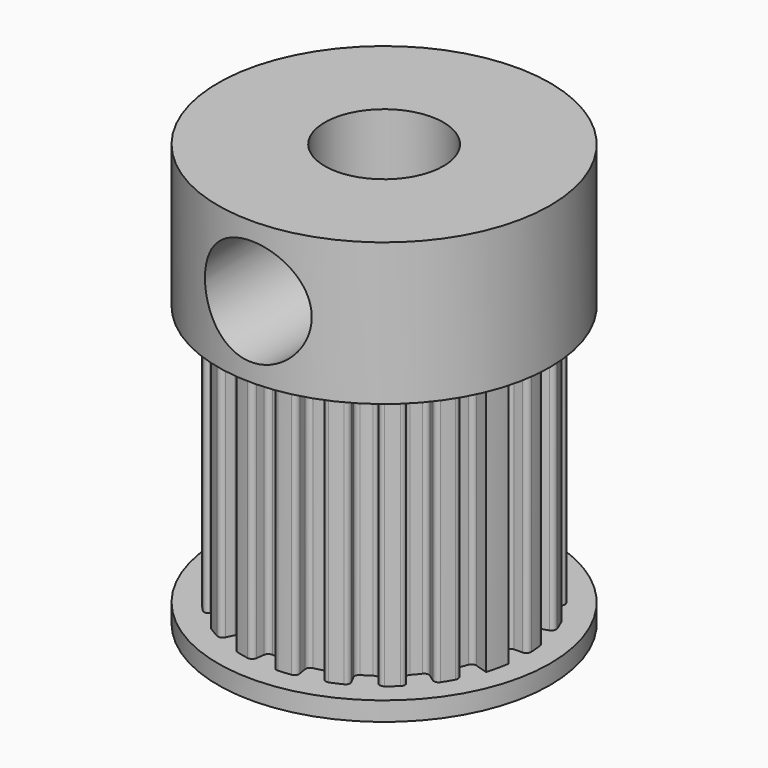
from build123d import *

# Parameters (mm, degrees)
F2_R      = 7
F3_DEPTH  = 6
F4_R      = 2.5
F5_DEPTH  = 11
F6_DEPTH  = 25
F7_R      = 0.2
F8_R      = 0.2
F9_R      = 7
F9_R_2    = 2.5
F10_DEPTH = 0.8
F12_D     = 4.5
F12_DEPTH = 5
F12_START = 0.3714633
F12_TIP   = 1.3519363928


with BuildPart() as f3:
    # F2 (on Top) → F3 (new body)
    with BuildSketch(Plane.XY):
        Circle(F2_R)
    extrude(amount=F3_DEPTH)

    # F4 (on Top) → F5 (join)
    with BuildSketch(Plane.XY):
        with BuildLine():
            Line((-0.9386067902, 5.9261300436), (-0.8212809415, 5.1853637881))
            ThreePointArc((-0.8212809415, 5.1853637881), (-1.3144950213, 5.082775112), (-1.7956057525, 4.9333862591))
            Line((-1.7956057525, 4.9333862591), (-2.05212086, 5.6381557247))
            ThreePointArc((-2.05212086, 5.6381557247), (-2.4881594559, 5.4597676253), (-2.9088577215, 5.2477182428))
            Line((-2.9088577215, 5.2477182428), (-2.5452505063, 4.5917534625))
            ThreePointArc((-2.5452505063, 4.5917534625), (-2.8936464362, 4.3805605009), (-3.2246167416, 4.1429876743))
            Line((-3.2246167416, 4.1429876743), (-3.6852762761, 4.7348430564))
            ThreePointArc((-3.6852762761, 4.7348430564), (-4.0454073039, 4.4311036713), (-4.3805970504, 4.1000450585))
            Line((-4.3805970504, 4.1000450585), (-3.8330224191, 3.5875394262))
            ThreePointArc((-3.8330224191, 3.5875394262), (-4.0996707783, 3.2795120841), (-4.3416307987, 2.951735423))
            Line((-4.3416307987, 2.951735423), (-4.96186377, 3.373411912))
            ThreePointArc((-4.96186377, 3.373411912), (-5.211242848, 2.9737094644), (-5.428492881, 2.5556731091))
            Line((-5.428492881, 2.5556731091), (-4.7499312709, 2.2362139704))
            ThreePointArc((-4.7499312709, 2.2362139704), (-4.9090325686, 1.8611553509), (-5.0385715268, 1.4748887988))
            Line((-5.0385715268, 1.4748887988), (-5.7583674593, 1.6855871986))
            ThreePointArc((-5.7583674593, 1.6855871986), (-5.8728659815, 1.2285947921), (-5.9511563321, 0.7640276902))
            Line((-5.9511563321, 0.7640276902), (-5.2072617906, 0.6685242289))
            ThreePointArc((-5.2072617906, 0.6685242289), (-5.2434222231, 0.2627230287), (-5.2480066119, -0.1446602974))
            Line((-5.2480066119, -0.1446602974), (-5.9977218421, -0.1653260542))
            ThreePointArc((-5.9977218421, -0.1653260542), (-5.9662615346, -0.6353922413), (-5.8980172408, -1.101541024))
            Line((-5.8980172408, -1.101541024), (-5.1607650857, -0.963848396))
            ThreePointArc((-5.1607650857, -0.963848396), (-5.0704859602, -1.3611289901), (-4.9496722181, -1.7502128252))
            Line((-4.9496722181, -1.7502128252), (-5.6567682492, -2.0002432288))
            ThreePointArc((-5.6567682492, -2.0002432288), (-5.4823930456, -2.4379020681), (-5.2742170658, -2.8605304304))
            Line((-5.2742170658, -2.8605304304), (-4.6149399325, -2.5029641266))
            ThreePointArc((-4.6149399325, -2.5029641266), (-4.4069561816, -2.8532853368), (-4.1724336101, -3.1864239783))
            Line((-4.1724336101, -3.1864239783), (-4.7684955544, -3.6416274038))
            ThreePointArc((-4.7684955544, -3.6416274038), (-4.4680770809, -4.004533331), (-4.1401114265, -4.3427499786))
            Line((-4.1401114265, -4.3427499786), (-3.6225974982, -3.7999062313))
            ThreePointArc((-3.6225974982, -3.7999062313), (-3.3170325341, -4.0693728224), (-2.9914923019, -4.3143335299))
            Line((-2.9914923019, -4.3143335299), (-3.4188483451, -4.9306668914))
            ThreePointArc((-3.4188483451, -4.9306668914), (-3.021453511, -5.1837070404), (-2.6054304112, -5.4047879119))
            Line((-2.6054304112, -5.4047879119), (-2.2797516098, -4.7291894229))
            ThreePointArc((-2.2797516098, -4.7291894229), (-1.9061702892, -4.8917292268), (-1.5211099546, -5.0248108925))
            Line((-1.5211099546, -5.0248108925), (-1.7384113767, -5.7426410201))
            ThreePointArc((-1.7384113767, -5.7426410201), (-1.2824900131, -5.8613325589), (-0.8186616721, -5.9438870335))
            Line((-0.8186616721, -5.9438870335), (-0.7163289631, -5.2009011543))
            ThreePointArc((-0.7163289631, -5.2009011543), (-0.3108770468, -5.2407876757), (0.0964469803, -5.2491140186))
            Line((0.0964469803, -5.2491140186), (0.1102251203, -5.9989874498))
            ThreePointArc((0.1102251203, -5.9989874498), (0.5805604636, -5.9718464103), (1.0473164586, -5.9078869518))
            Line((1.0473164586, -5.9078869518), (0.9164019013, -5.1694010828))
            ThreePointArc((0.9164019013, -5.1694010828), (1.3144950213, -5.082775112), (1.7046722133, -4.9655405189))
            Line((1.7046722133, -4.9655405189), (1.9481968152, -5.6749034502))
            ThreePointArc((1.9481968152, -5.6749034502), (2.3874389677, -5.5045558563), (2.811961765, -5.3002708452))
            Line((2.811961765, -5.3002708452), (2.4604665444, -4.6377369895))
            ThreePointArc((2.4604665444, -4.6377369895), (2.8126834745, -4.4329799991), (3.1479623414, -4.2015274719))
            Line((3.1479623414, -4.2015274719), (3.5976712474, -4.8017456821))
            ThreePointArc((3.5976712474, -4.8017456821), (3.9633214517, -4.5046734699), (4.3045364614, -4.1798284478))
            Line((4.3045364614, -4.1798284478), (3.7664694037, -3.6573498918))
            ThreePointArc((3.7664694037, -3.6573498918), (4.0387314889, -3.3542730897), (4.2866722135, -3.0309967558))
            Line((4.2866722135, -3.0309967558), (4.8990539583, -3.4639962924))
            ThreePointArc((4.8990539583, -3.4639962924), (5.1557338266, -3.0689426044), (5.3806268815, -2.6549678647))
            Line((5.3806268815, -2.6549678647), (4.7080485213, -2.3230968816))
            ThreePointArc((4.7080485213, -2.3230968816), (4.8740131162, -1.951024383), (5.0106262599, -1.5672027578))
            Line((5.0106262599, -1.5672027578), (5.7264300113, -1.791088866))
            ThreePointArc((5.7264300113, -1.791088866), (5.8493045514, -1.3362770163), (5.936116184, -0.8732265745))
            Line((5.936116184, -0.8732265745), (5.194101661, -0.7640732527))
            ThreePointArc((5.194101661, -0.7640732527), (5.2377109055, -0.3590048328), (5.2497785, 0.0482255248))
            Line((5.2497785, 0.0482255248), (5.9997468571, 0.0551148855))
            ThreePointArc((5.9997468571, 0.0551148855), (5.9769273758, 0.5256796977), (5.9172581497, 0.9930035197))
            Line((5.9172581497, 0.9930035197), (5.177600881, 0.8688780798))
            ThreePointArc((5.177600881, 0.8688780798), (5.0946353743, 1.2677501341), (4.9809898227, 1.6589877596))
            Line((4.9809898227, 1.6589877596), (5.6925597974, 1.8959860109))
            ThreePointArc((5.6925597974, 1.8959860109), (5.5262541874, 2.3367744129), (5.3258773826, 2.7631558235))
            Line((5.3258773826, 2.7631558235), (4.6601427098, 2.4177613456))
            ThreePointArc((4.6601427098, 2.4177613456), (4.4586297575, 2.7718442752), (4.2302668047, 3.1092350765))
            Line((4.2302668047, 3.1092350765), (4.834590634, 3.553411516))
            ThreePointArc((4.834590634, 3.553411516), (4.5408897502, 3.9217751435), (4.2191927711, 4.2659597232))
            Line((4.2191927711, 4.2659597232), (3.6917936748, 3.7327147578))
            ThreePointArc((3.6917936748, 3.7327147578), (3.3912306086, 4.0077493633), (3.0702454513, 4.2586491836))
            Line((3.0702454513, 4.2586491836), (3.5088519443, 4.8670276384))
            ThreePointArc((3.5088519443, 4.8670276384), (3.1161727374, 5.1273255671), (2.7042812893, 5.3560118286))
            Line((2.7042812893, 5.3560118286), (2.3662461282, 4.68651035))
            ThreePointArc((2.3662461282, 4.68651035), (1.9957138474, 4.8558857317), (1.6131633188, 4.9960188257))
            Line((1.6131633188, 4.9960188257), (1.8436152215, 5.7097358008))
            ThreePointArc((1.8436152215, 5.7097358008), (1.3899512632, 5.836782974), (0.9277177933, 5.9278444393))
            Line((0.9277177933, 5.9278444393), (0.8117530691, 5.1868638844))
            ThreePointArc((0.8117530691, 5.1868638844), (0.4071023257, 5.2341921723), (0, 5.25))
            Line((0, 5.25), (0, 6))
            ThreePointArc((0, 6), (-0.4707545744, 5.9815040024), (-0.9386067902, 5.9261300436))
        make_face()
        Circle(F4_R, mode=Mode.SUBTRACT)
    extrude(amount=-F5_DEPTH)

    # F6 (cut): a face of the model
    f6_faces = [f3.faces().sort_by_distance(p)[0] for p in [
        (0, 0, 0),
    ]]
    extrude(f6_faces, amount=-F6_DEPTH, mode=Mode.SUBTRACT)

    # F7
    f7_edges = [f3.edges().sort_by_distance(p)[0] for p in [
        (-4.949672, -1.750213, -5.5),
        (-5.160765, -0.963848, -5.5),
        (-4.61494, -2.502964, -5.5),
        (-5.248007, -0.14466, -5.5),
        (-5.207262, 0.668524, -5.5),
        (-4.749931, 2.236214, -5.5),
        (-3.833022, 3.587539, -5.5),
        (-5.038572, 1.474889, -5.5),
        (-4.341631, 2.951735, -5.5),
        (-3.224617, 4.142988, -5.5),
        (-2.545251, 4.591753, -5.5),
        (-0.821281, 5.185364, -5.5),
        (0.811753, 5.186864, -5.5),
        (2.366246, 4.68651, -5.5),
        (-1.795606, 4.933386, -5.5),
        (0, 5.25, -5.5),
        (1.613163, 4.996019, -5.5),
        (3.070245, 4.258649, -5.5),
        (3.691794, 3.732715, -5.5),
        (4.230267, 3.109235, -5.5),
        (5.177601, 0.868878, -5.5),
        (5.194102, -0.764073, -5.5),
        (4.660143, 2.417761, -5.5),
        (4.98099, 1.658988, -5.5),
        (5.249778, 0.048226, -5.5),
        (5.010626, -1.567203, -5.5),
        (4.708049, -2.323097, -5.5),
        (3.766469, -3.65735, -5.5),
        (2.460467, -4.637737, -5.5),
        (1.948197, -5.674903, -5.5),
        (4.286672, -3.030997, -5.5),
        (3.147962, -4.201527, -5.5),
        (1.704672, -4.965541, -5.5),
        (0.096447, -5.249114, -5.5),
        (-2.279752, -4.729189, -5.5),
        (0.916402, -5.169401, -5.5),
        (-0.716329, -5.200901, -5.5),
        (-1.52111, -5.024811, -5.5),
        (-2.991492, -4.314334, -5.5),
        (-3.622597, -3.799906, -5.5),
        (-4.172434, -3.186424, -5.5),
    ]]
    fillet(f7_edges, radius=F7_R)

    # F8
    f8_edges = [f3.edges().sort_by_distance(p)[0] for p in [
        (-4.140111, -4.34275, -5.5),
        (-4.768496, -3.641627, -5.5),
        (-5.274217, -2.86053, -5.5),
        (-5.656768, -2.000243, -5.5),
        (-5.898017, -1.101541, -5.5),
        (-5.997722, -0.165326, -5.5),
        (-5.951156, 0.764028, -5.5),
        (1.047316, -5.907887, -5.5),
        (2.811962, -5.300271, -5.5),
        (3.597671, -4.801746, -5.5),
        (4.304536, -4.179828, -5.5),
        (4.899054, -3.463996, -5.5),
        (5.380627, -2.654968, -5.5),
        (5.999747, 0.055115, -5.5),
        (5.917258, 0.993004, -5.5),
        (5.69256, 1.895986, -5.5),
        (5.325877, 2.763156, -5.5),
        (4.834591, 3.553412, -5.5),
        (2.704281, 5.356012, -5.5),
        (1.843615, 5.709736, -5.5),
        (0.927718, 5.927844, -5.5),
        (0, 6, -5.5),
        (-0.938607, 5.92613, -5.5),
        (-2.052121, 5.638156, -5.5),
        (-2.908858, 5.247718, -5.5),
        (-3.685276, 4.734843, -5.5),
        (-4.380597, 4.100045, -5.5),
        (-4.961864, 3.373412, -5.5),
        (-5.428493, 2.555673, -5.5),
        (-5.758367, 1.685587, -5.5),
        (-3.418848, -4.930667, -5.5),
        (-2.60543, -5.404788, -5.5),
        (-1.738411, -5.742641, -5.5),
        (-0.818662, -5.943887, -5.5),
        (0.110225, -5.998987, -5.5),
    ]]
    fillet(f8_edges, radius=F8_R)

    # F9 (on offset) → F10 (join)
    with BuildSketch(Plane.XY.offset(-11)):
        Circle(F9_R)
        Circle(F9_R_2, mode=Mode.SUBTRACT)
    extrude(amount=-F10_DEPTH)

    # F12
    # its depths count from where the whole tool has entered the part; down to there all is cleared
    with Locations(Plane.XZ.offset(7).offset(-F12_START)):
        with Locations((0, 3.0072899535)):
            Hole(F12_D / 2, depth=F12_DEPTH)
            with Locations((0, 0, -(F12_DEPTH + F12_TIP / 2))):  # 118° drill point
                Cone(0, F12_D / 2, F12_TIP, mode=Mode.SUBTRACT)


solid = f3.part
